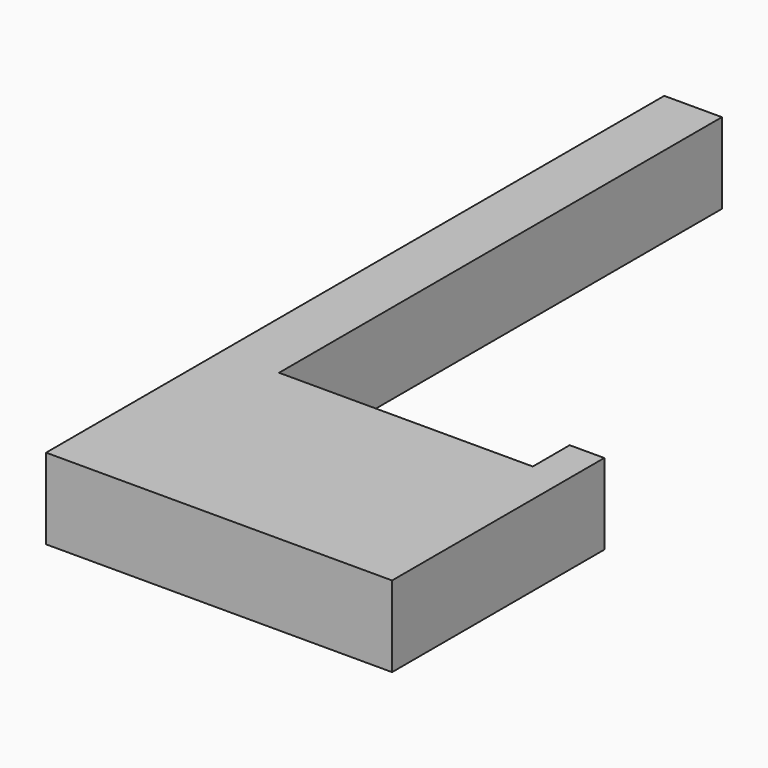
from build123d import *

# Parameters (mm, degrees)
PAD_DEPTH = 7


with BuildPart() as part:
    # Sketch → Pad (new body)
    with BuildSketch(Plane.XY):
        Polygon((-11, 0), (11, 0), (11, 4), (14, 4), (14, -19), (-16, -19), (-16, 48), (-11, 48), align=None)
    extrude(amount=PAD_DEPTH)


solid = part.part
